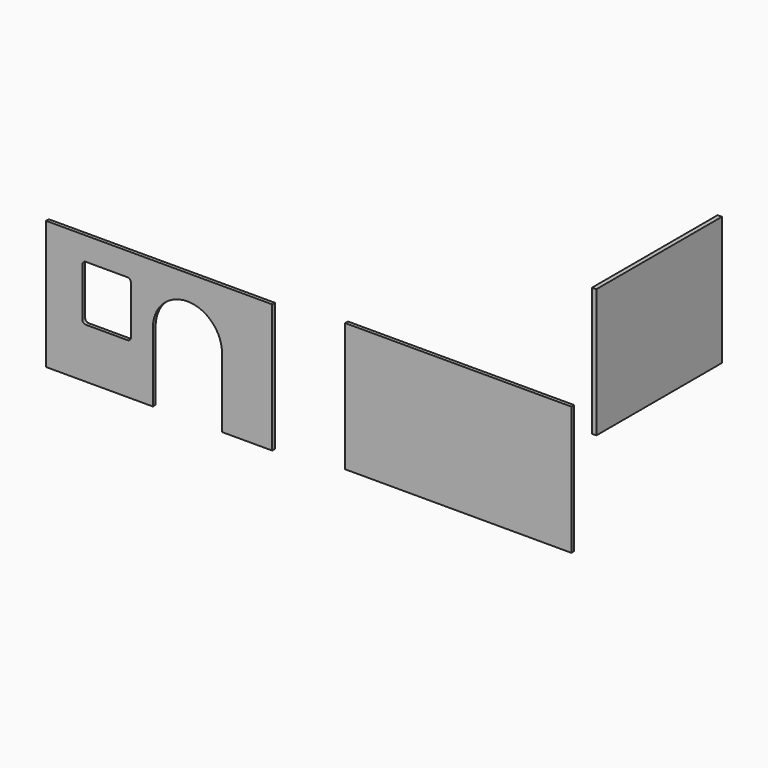
from build123d import *

# Parameters (mm, degrees)
F0_W     = 653.5
F0_H     = 372
F1_DEPTH = 10
F3_DEPTH = 12.5
F5_DEPTH = 10


with BuildPart() as f1:
    # F0 (on Front) → F1 (new body)
    with BuildSketch(Plane.XZ):
        Rectangle(F0_W, F0_H)
        with Locations((-864.276171, -20.984091)):
            Rectangle(F0_W, F0_H)
    extrude(amount=F1_DEPTH)

    # F4 (on face) → F5 (cut)
    with BuildSketch(Plane.XZ.offset(10)):
        with BuildLine():
            ThreePointArc((-946.026171, 88.015909), (-948.955103, 95.086977), (-956.026171, 98.015909))
            Line((-956.026171, 98.015909), (-1076.026171, 98.015909))
            ThreePointArc((-1076.026171, 98.015909), (-1083.097239, 95.086977), (-1086.026171, 88.015909))
            Line((-1086.026171, 88.015909), (-1086.026171, -51.984091))
            ThreePointArc((-1086.026171, -51.984091), (-1083.097239, -59.055159), (-1076.026171, -61.984091))
            Line((-1076.026171, -61.984091), (-956.026171, -61.984091))
            ThreePointArc((-956.026171, -61.984091), (-948.955103, -59.055159), (-946.026171, -51.984091))
            Line((-946.026171, -51.984091), (-946.026171, 88.015909))
        make_face()
        with BuildLine():
            Line((-882.526171, -6.984091), (-882.526171, -206.984091))
            Line((-882.526171, -206.984091), (-682.526171, -206.984091))
            Line((-682.526171, -206.984091), (-682.526171, -6.984091))
            ThreePointArc((-682.526171, -6.984091), (-711.815493, 63.726587), (-782.526171, 93.015909))
            ThreePointArc((-782.526171, 93.015909), (-853.236849, 63.726587), (-882.526171, -6.984091))
        make_face()
    extrude(amount=-F5_DEPTH, mode=Mode.SUBTRACT)


with BuildPart() as f3:
    # F2 (on Right) → F3 (new body)
    with BuildSketch(Plane.YZ):
        Polygon((926.75, 186), (473.25, 186), (473.25, 0), (473.25, -186), (926.75, -186), align=None)
    extrude(amount=F3_DEPTH)


solid = Compound([f1.part, f3.part])
